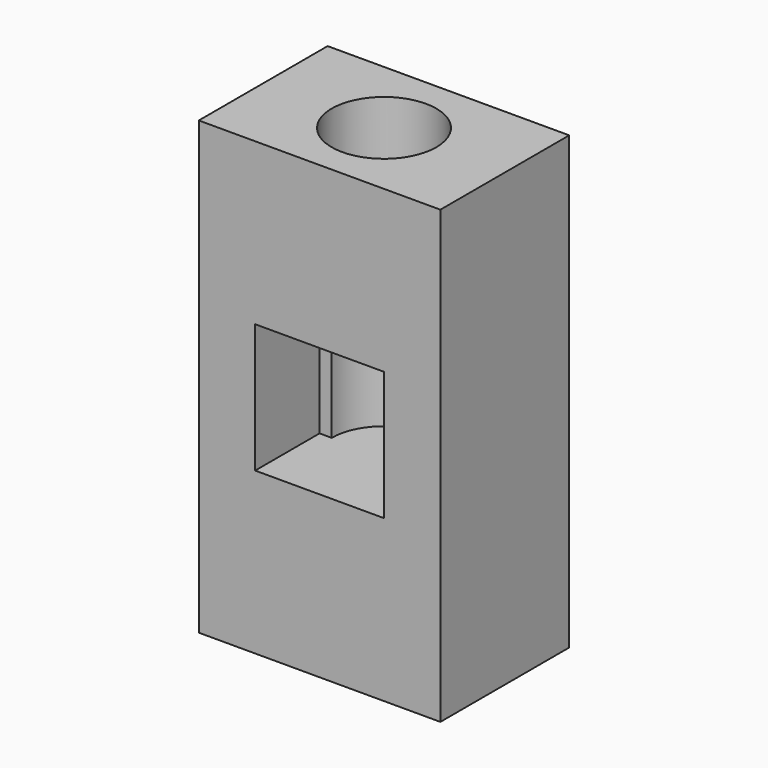
from build123d import *

# Parameters (mm, degrees)
F0_R     = 3
F0_R_2   = 2.15
F1_DEPTH = 8
F2_W     = 15
F2_H     = 10
F3_DEPTH = 20
F4_R     = 3.25
F6_DEPTH = 18
F7_DEPTH = 5
F8_DEPTH = 8


with BuildPart() as f1:
    # F0 (on Top) → F1 (new body)
    with BuildSketch(Plane.XY):
        Circle(F0_R)
        Circle(F0_R_2, mode=Mode.SUBTRACT)
    extrude(amount=-F1_DEPTH)

    # F2 (on face) → F3 (join)
    with BuildSketch(Plane.XY):
        Rectangle(F2_W, F2_H)
    extrude(amount=F3_DEPTH)

    # F4 (on face) → F6 (cut)
    with BuildSketch(Plane.XY.offset(20)):
        Circle(F4_R)
    extrude(amount=-F6_DEPTH, mode=Mode.SUBTRACT)

    # F5 (on face) → F7 (cut)
    with BuildSketch(Plane.XZ.offset(5)):
        Polygon((-4, 2), (0, 2), (4, 2), (4, 10), (0, 10), (-4, 10), align=None)
    extrude(amount=-F7_DEPTH, mode=Mode.SUBTRACT)

    # F8 (add): a face of the model
    f8_faces = [f1.faces().sort_by_distance(p)[0] for p in [
        (7.3197224362, 0, 0),
    ]]
    extrude(f8_faces, amount=F8_DEPTH)


solid = f1.part
